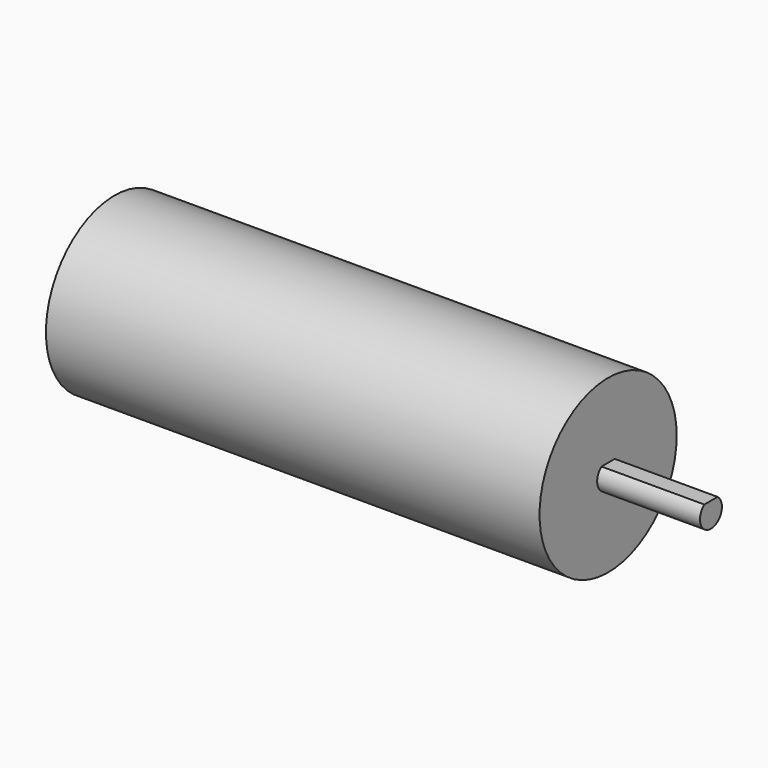
from build123d import *

# Parameters (mm, degrees)
F0_R     = 12.5
F1_DEPTH = 72
F3_DEPTH = 15


with BuildPart() as f1:
    # F0 (on Right) → F1 (new body)
    with BuildSketch(Plane.YZ):
        Circle(F0_R)
    extrude(amount=F1_DEPTH)

    # F2 (on face) → F3 (join)
    with BuildSketch(Plane.YZ.offset(72)):
        with BuildLine():
            Line((1.207794, 1.594124), (-1.207794, 1.594124))
            ThreePointArc((-1.207794, 1.594124), (0, -2), (1.207794, 1.594124))
        make_face()
    extrude(amount=F3_DEPTH)


solid = f1.part
